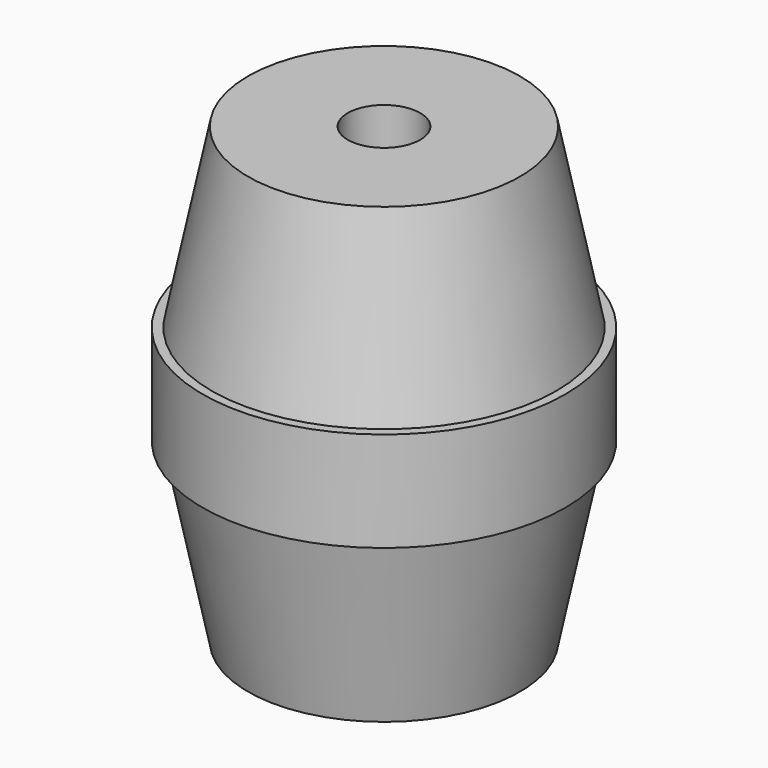
from build123d import *

# Parameters (mm, degrees)
F4_D           = 8
F4_DEPTH       = 10
F4_TIP         = 2.4034424761
F4_ON_F2_D     = 8
F4_ON_F2_DEPTH = 10
F4_ON_F2_TIP   = 2.4034424761


with BuildPart() as f1:
    # F0 (on Front) → F1 (revolve)
    with BuildSketch(Plane.XZ):
        Polygon((0, -25), (0, 25), (-15, 25), (-19, 5.5), (-20, 5.5), (-20, 0), (-20, -5.5), (-20, -5.5145598017), (-19, -5.5145598017), (-15, -25), align=None)
    revolve(axis=Axis((0, 0, 0), (0, 0, -1)))

    # F4
    with Locations(Plane(origin=(0, 0, -25), x_dir=(1, 0, 0), z_dir=(0, 0, -1))):
        with Locations((0, 0)):
            Hole(F4_D / 2, depth=F4_DEPTH)
            with Locations((0, 0, -(F4_DEPTH + F4_TIP / 2))):  # 118° drill point
                Cone(0, F4_D / 2, F4_TIP, mode=Mode.SUBTRACT)

    # F4 on F2
    with Locations(Plane.XY.offset(25)):
        with Locations((0, 0)):
            Hole(F4_ON_F2_D / 2, depth=F4_ON_F2_DEPTH)
            with Locations((0, 0, -(F4_ON_F2_DEPTH + F4_ON_F2_TIP / 2))):  # 118° drill point
                Cone(0, F4_ON_F2_D / 2, F4_ON_F2_TIP, mode=Mode.SUBTRACT)


solid = f1.part
